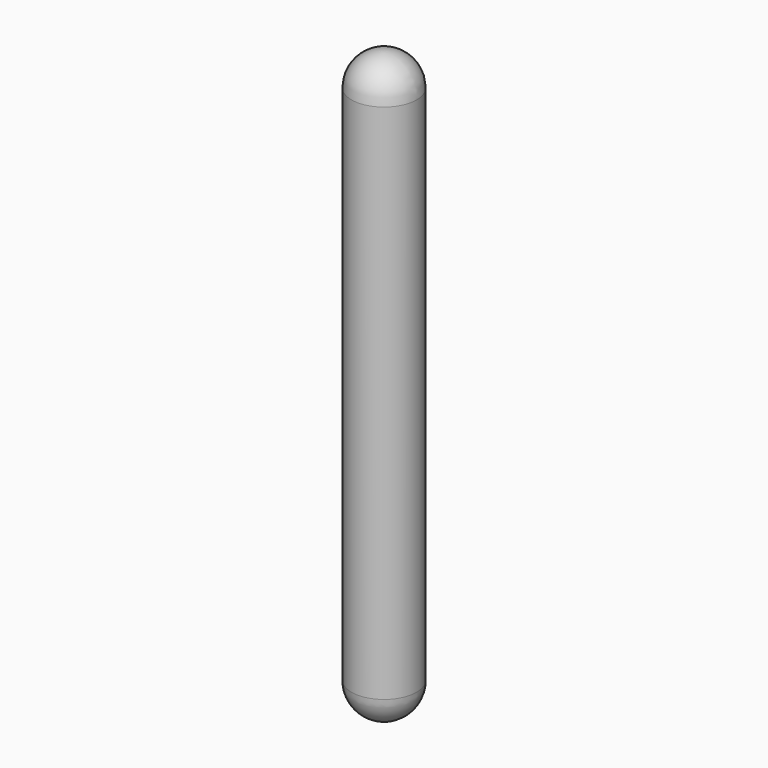
from build123d import *

# Parameters (mm, degrees)
F0_R     = 12.7
F1_DEPTH = 203.2


with BuildPart() as f1:
    # F0 (on Top) → F1 (new body)
    with BuildSketch(Plane.XY):
        Circle(F0_R)
    extrude(amount=F1_DEPTH)

    # F2 (on Front) → F3 (revolve)
    with BuildSketch(Plane.XZ):
        with BuildLine():
            Line((0, 215.9), (0, 203.2))
            Line((0, 203.2), (12.7, 203.2))
            ThreePointArc((12.7, 203.2), (8.980256, 212.180256), (0, 215.9))
        make_face()
        with BuildLine():
            Line((12.7, 0), (0, 0))
            Line((0, 0), (0, -12.7))
            ThreePointArc((0, -12.7), (8.980256, -8.980256), (12.7, 0))
        make_face()
    revolve(axis=Axis((0, 0, -6.35), (0, 0, -1)))


solid = f1.part
